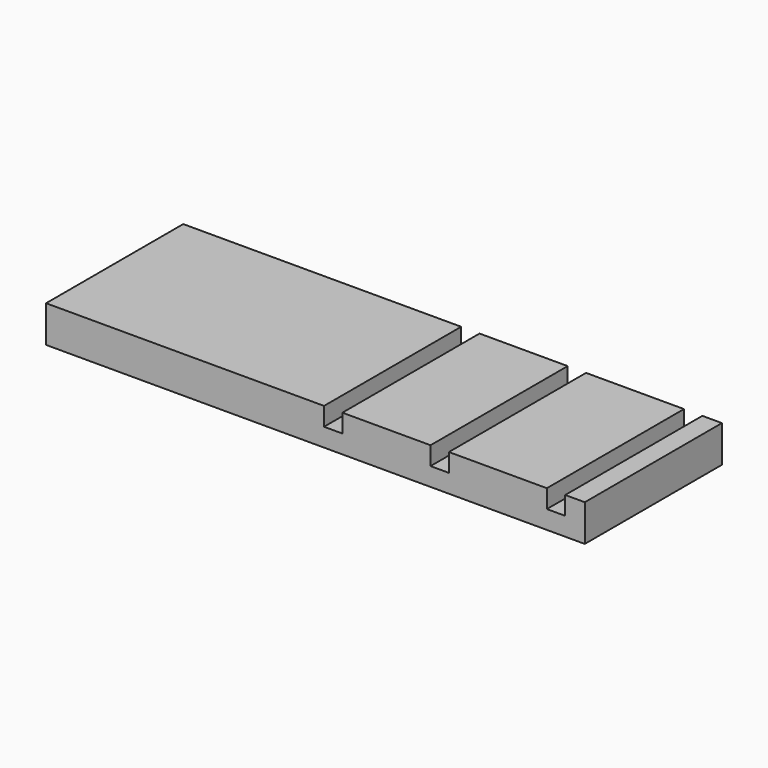
from build123d import *

# Parameters (mm, degrees)
F0_W     = 279.4
F0_H     = 19.05
F1_DEPTH = 88.9
F2_W     = 9.525
F2_H     = 88.9
F3_DEPTH = 9.525


with BuildPart() as f1:
    # F0 (on Front) → F1 (new body)
    with BuildSketch(Plane.XZ):
        with Locations((5.016707, -19.283601)):
            Rectangle(F0_W, F0_H)
    extrude(amount=F1_DEPTH)

    # F2 (on face) → F3 (cut)
    with BuildSketch(Plane.XY.offset(-9.758601)):
        with Locations((129.802699, -44.45)):
            Rectangle(F2_W, F2_H)
        with Locations((69.477699, -44.45)):
            Rectangle(F2_W, F2_H)
        with Locations((14.239416, -44.45)):
            Rectangle(F2_W, F2_H)
    extrude(amount=-F3_DEPTH, mode=Mode.SUBTRACT)


solid = f1.part
